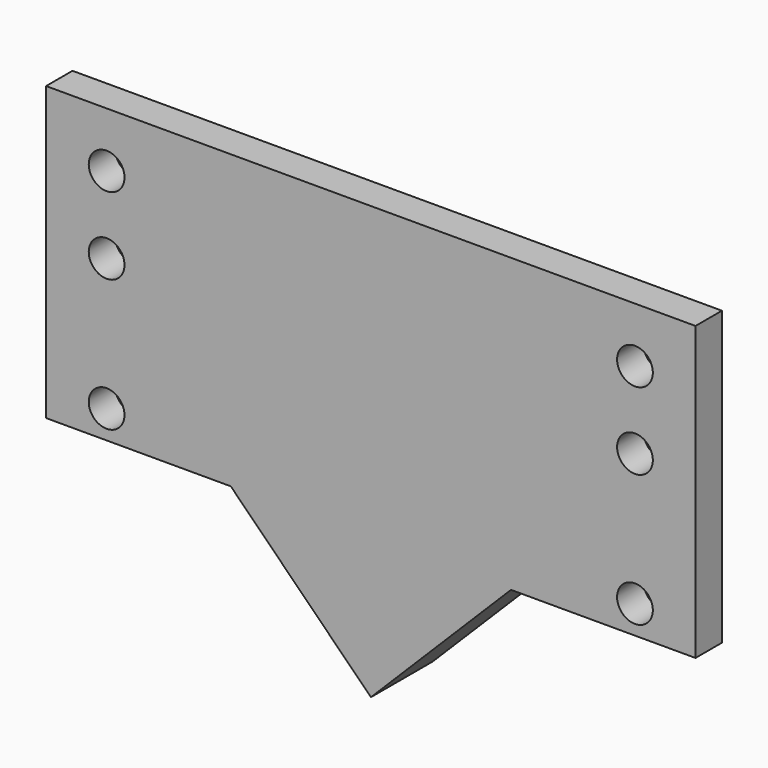
from build123d import *

# Parameters (mm, degrees)
F1_DEPTH = 12.7
F2_DEPTH = 9.525
F3_DEPTH = 9.525
F4_D     = 10.3124


with BuildPart() as f1:
    # F0 (on Front) → F1 (new body)
    with BuildSketch(Plane.XZ):
        Polygon((-37.8326816705, -12.1775942421), (-29.7504506663, -20.2598252463), (-23.0152595659, -20.2598252463), (17.3958929789, -60.6709777911), (57.8070455237, -20.2598252463), (64.5422376145, -20.2598252463), (72.6244686187, -12.1775942421), (17.3958934741, 43.0509809025), align=None)
    extrude(amount=-F1_DEPTH)

    # F0 (on Front) → F2 (join)
    with BuildSketch(Plane.XZ):
        Polygon((111.0247183502, 64.0561261252), (-76.3002816498, 64.0561261252), (-76.3002816498, -20.2598252463), (-29.7504506663, -20.2598252463), (-37.8326816705, -12.1775942421), (17.3958934741, 43.0509809025), (72.6244686187, -12.1775942421), (64.5422376145, -20.2598252463), (111.0247183502, -20.2598252463), align=None)
    extrude(amount=F2_DEPTH)

    # F0 (on Front) → F3 (join)
    with BuildSketch(Plane.XZ):
        Polygon((-37.8326816705, -12.1775942421), (-29.7504506663, -20.2598252463), (-23.0152595659, -20.2598252463), (17.3958929789, -60.6709777911), (57.8070455237, -20.2598252463), (64.5422376145, -20.2598252463), (72.6244686187, -12.1775942421), (17.3958934741, 43.0509809025), align=None)
    extrude(amount=F3_DEPTH)

    # F4 (through all)
    with Locations(Plane(origin=(0, 0, 0), x_dir=(1, 0, 0), z_dir=(0, 1, 0))):
        with Locations((-58.8377816498, -48.1811261252), (-58.8377816498, -25.9561261252), (-58.8377816498, 12.1438738748), (93.5622183502, -48.1811261252), (93.5622183502, -25.9561261252), (93.5622183502, 12.1438738748)):
            Hole(F4_D / 2)


solid = f1.part
